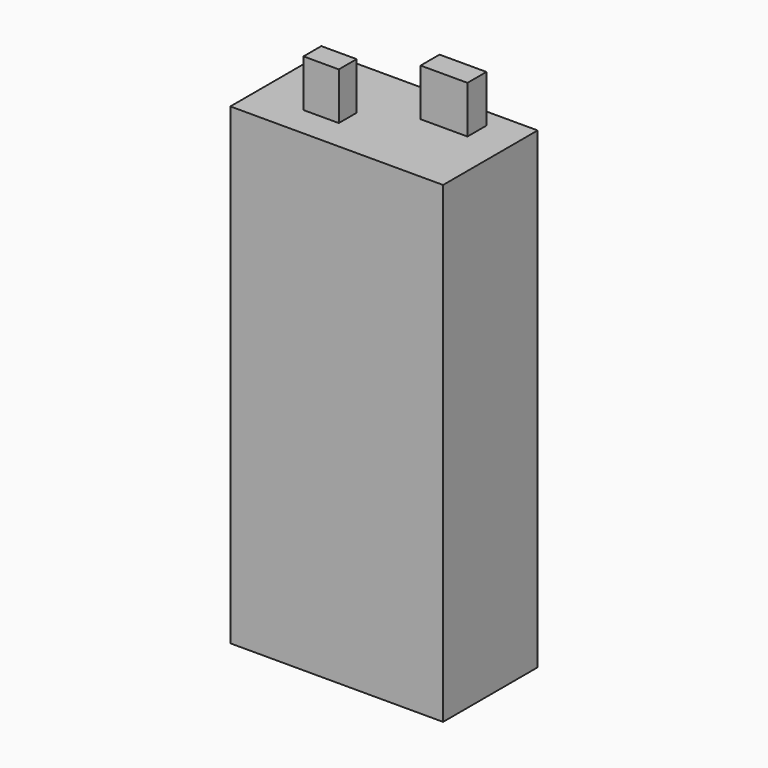
from build123d import *

# Parameters (mm, degrees)
SKETCH_W      = 90
SKETCH_H      = 50
PAD_DEPTH     = 200
SKETCH001_W   = 19.829214
SKETCH001_H   = 10.023564
SKETCH001_W_2 = 14.92639
SKETCH001_H_2 = 9.419009
PAD001_DEPTH  = 20


with BuildPart() as part:
    # Sketch → Pad (new body)
    with BuildSketch(Plane.XY):
        Rectangle(SKETCH_W, SKETCH_H)
    extrude(amount=PAD_DEPTH)

    # Sketch001 → Pad001 (new body)
    with BuildSketch(Plane.XY.offset(200)):
        with Locations((19.720632, 12.108885)):
            Rectangle(SKETCH001_W, SKETCH001_H)
        with Locations((-17.039947, -7.235803)):
            Rectangle(SKETCH001_W_2, SKETCH001_H_2)
    extrude(amount=PAD001_DEPTH)


solid = part.part
